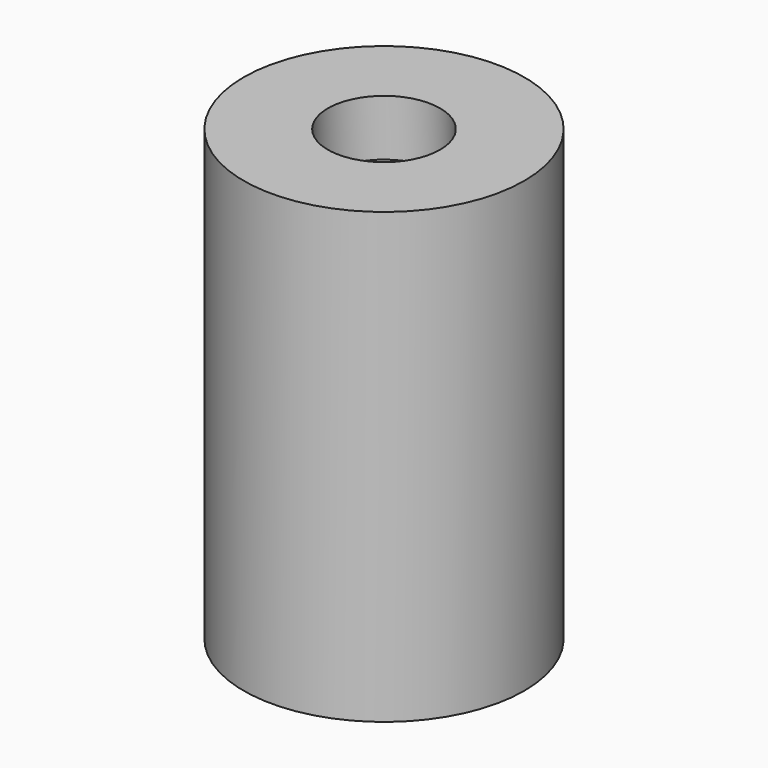
from build123d import *

# Parameters (mm, degrees)
SKETCH_R     = 125
PAD_DEPTH    = 200
SKETCH001_R  = 50
POCKET_DEPTH = 50


with BuildPart() as part:
    # Sketch → Pad (new body, symmetric)
    with BuildSketch(Plane.XY):
        Circle(SKETCH_R)
    extrude(amount=PAD_DEPTH, both=True)

    # Sketch001 (on Face3 of Pad) → Pocket (cut)
    with BuildSketch(Plane.XY.offset(200)):
        Circle(SKETCH001_R)
    extrude(amount=-POCKET_DEPTH, mode=Mode.SUBTRACT)


solid = part.part
